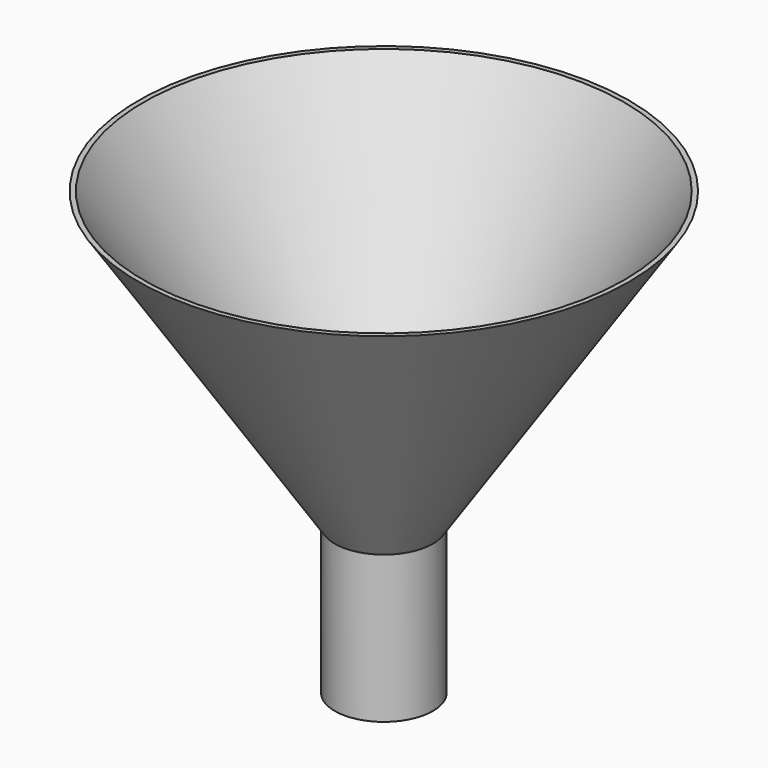
from build123d import *

# Parameters (mm, degrees)
CYLINDER001_R     = 4.5
CYLINDER001_DEPTH = 15
CYLINDER_R        = 5
CYLINDER_DEPTH    = 15


with BuildPart() as obj1:
    # Cylinder001 → Cylinder001 (new body)
    with BuildSketch(Plane.XY):
        Circle(CYLINDER001_R)
    extrude(amount=CYLINDER001_DEPTH)


with BuildPart() as cilindro:
    # Cylinder → Cylinder (new body)
    with BuildSketch(Plane.XY):
        Circle(CYLINDER_R)
    extrude(amount=CYLINDER_DEPTH)

    # Cut: cut obj1
    add(obj1.part, mode=Mode.SUBTRACT)


with BuildPart() as cono_interior:
    # Cone001 → Cone001 (revolve)
    with BuildSketch(Plane.XZ):
        Polygon((0, 0), (4.5, 0), (24.5, 30), (0, 30), align=None)
    revolve(axis=Axis((0, 0, 0), (0, 0, 1)))


with BuildPart() as obj2:
    # Cone → Cone (revolve)
    with BuildSketch(Plane.XZ):
        Polygon((0, 0), (5, 0), (25, 30), (0, 30), align=None)
    revolve(axis=Axis((0, 0, 0), (0, 0, 1)))

    # Cut001: cut cono_interior
    add(cono_interior.part, mode=Mode.SUBTRACT)


with BuildPart() as obj2_1:
    # Cut001 placement: moved
    add(obj2.part.moved(Location((0, 0, 15))))

    # Fusion: union cilindro
    add(cilindro.part)


solid = obj2_1.part
